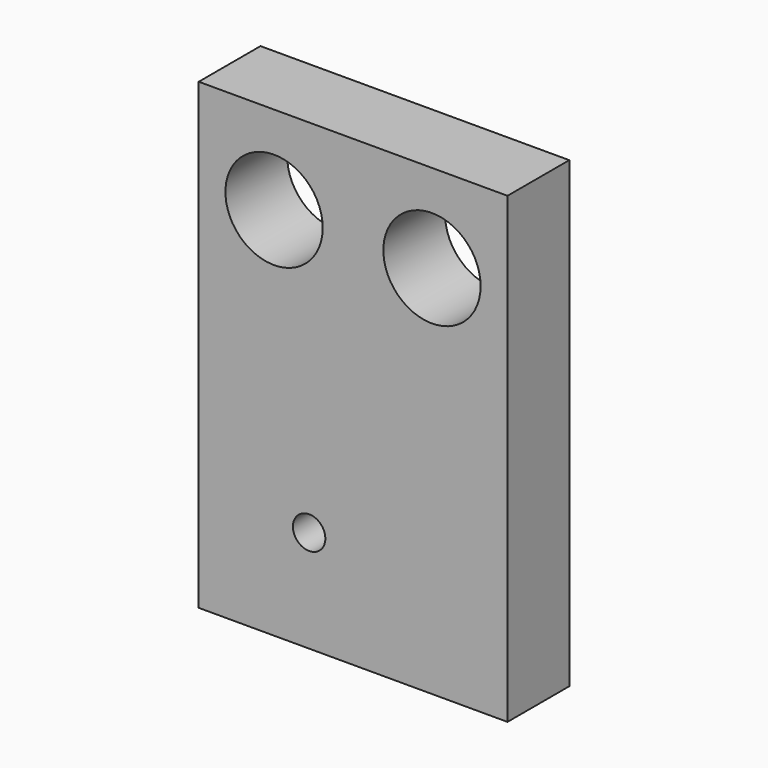
from build123d import *

# Parameters (mm, degrees)
F0_W     = 50.8
F0_H     = 76.2
F0_R     = 2.667
F0_R_2   = 8.001
F1_DEPTH = 12.7


with BuildPart() as f1:
    # F0 (on Front) → F1 (new body)
    with BuildSketch(Plane.XZ):
        with Locations((-86.740784, 21.294336)):
            Rectangle(F0_W, F0_H)
        with Locations((-93.977265, 0)):
            Circle(F0_R, mode=Mode.SUBTRACT)
        with Locations((-99.746733, 44.86419)):
            Circle(F0_R_2, mode=Mode.SUBTRACT)
        with Locations((-73.767539, 44.86419)):
            Circle(F0_R_2, mode=Mode.SUBTRACT)
    extrude(amount=F1_DEPTH)


solid = f1.part
